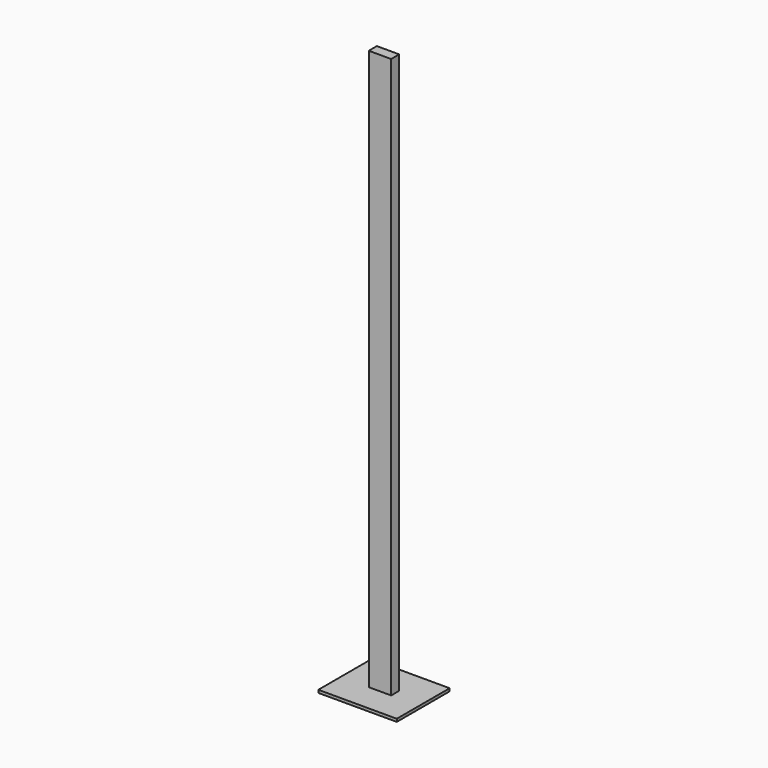
from build123d import *

# Parameters (mm, degrees)
F0_W     = 4
F0_H     = 1.8
F1_DEPTH = 100
F0_W_2   = 14
F0_H_2   = 11.8
F2_DEPTH = 0.5


with BuildPart() as f1:
    # F0 (on Top) → F1 (new body)
    with BuildSketch(Plane.XY):
        with Locations((2, -0.9)):
            Rectangle(F0_W, F0_H)
    extrude(amount=F1_DEPTH)

    # F0 (on Top) → F2 (join)
    with BuildSketch(Plane.XY):
        with Locations((2, -0.9)):
            Rectangle(F0_W_2, F0_H_2)
        with Locations((2, -0.9)):
            Rectangle(F0_W, F0_H, mode=Mode.SUBTRACT)
        with Locations((2, -0.9)):
            Rectangle(F0_W, F0_H)
    extrude(amount=-F2_DEPTH)


solid = f1.part
